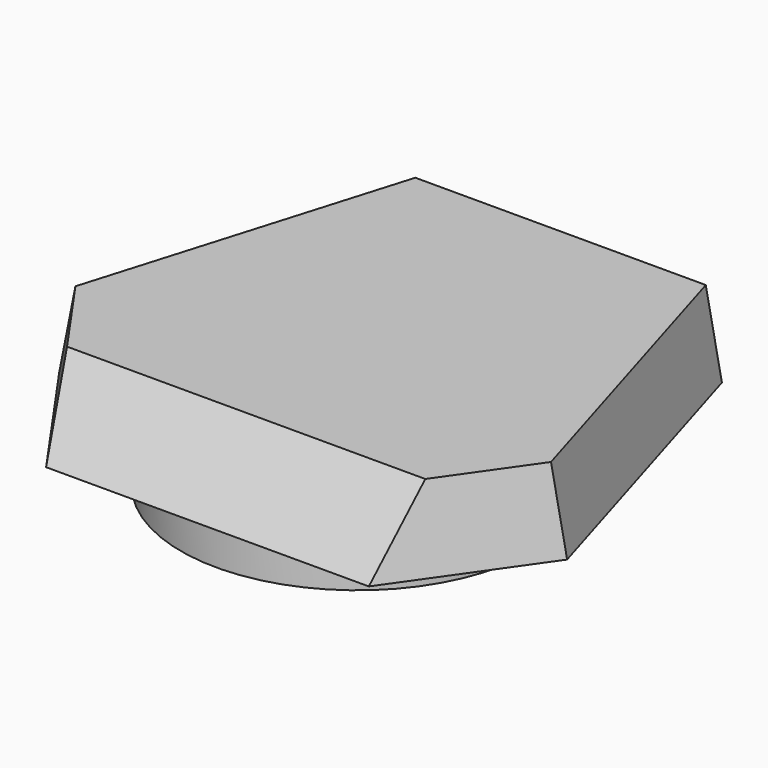
from build123d import *

# Parameters (mm, degrees)
F4_R     = 27.7189698501
F5_DEPTH = 6.35


with BuildPart() as f3:
    # F0 (on Top) → F3 section 0
    with BuildSketch(Plane.XY):
        Polygon((-25.4, -20.8064619249), (0, -20.8064619249), (25.4, -20.8064619249), (39.9688414833, 0), (25.4, 48.666095568), (0, 48.666095568), (-25.4, 48.666095568), (-39.9688414833, 0), align=None)
    # F2 (on offset) → F3 section 1
    with BuildSketch(Plane.XY.offset(12.7)):
        Polygon((22.86, 48.6660952), (0, 48.6660952), (-22.86, 48.6660952), (-37.4288413732, 0), (-28.195581331, -13.1864619249), (0, -13.1864619249), (28.1955748, -13.1864619249), (37.4288348422, 0), align=None)
    loft()

    # F4 (on face) → F5 (join)
    with BuildSketch(Plane(origin=(0, 0, 0), x_dir=(1, 0, 0), z_dir=(0, 0, -1))):
        with Locations((0, -8.6576407775)):
            Circle(F4_R)
    extrude(amount=F5_DEPTH)


solid = f3.part
